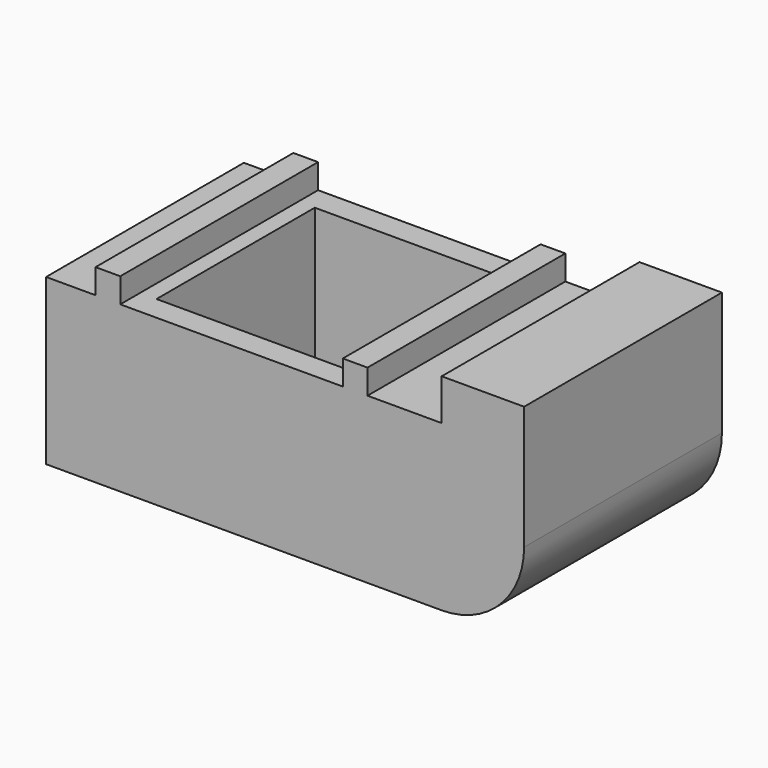
from build123d import *

# Parameters (mm, degrees)
F1_DEPTH = 30
F2_W     = 23
F2_H     = 24
F3_DEPTH = 20.001


with BuildPart() as f1:
    # F0 (on Front) → F1 (new body)
    with BuildSketch(Plane.XZ):
        with BuildLine():
            Line((0, 20), (0, 0))
            Line((0, 0), (48, 0))
            ThreePointArc((48, 0), (55.071068, 2.928932), (58, 10))
            Line((58, 10), (58, 25))
            Line((58, 25), (48, 25))
            Line((48, 25), (48, 20))
            Line((48, 20), (39, 20))
            Line((39, 20), (39, 23))
            Line((39, 23), (36, 23))
            Line((36, 23), (36, 20))
            Line((36, 20), (9, 20))
            Line((9, 20), (9, 23))
            Line((9, 23), (6, 23))
            Line((6, 23), (6, 20))
            Line((6, 20), (0, 20))
        make_face()
    extrude(amount=F1_DEPTH)

    # F2 (on face) → F3 (cut, through all)
    with BuildSketch(Plane.XY.offset(20)):
        with Locations((22.5, -15)):
            Rectangle(F2_W, F2_H)
    extrude(amount=-F3_DEPTH, mode=Mode.SUBTRACT)


solid = f1.part
